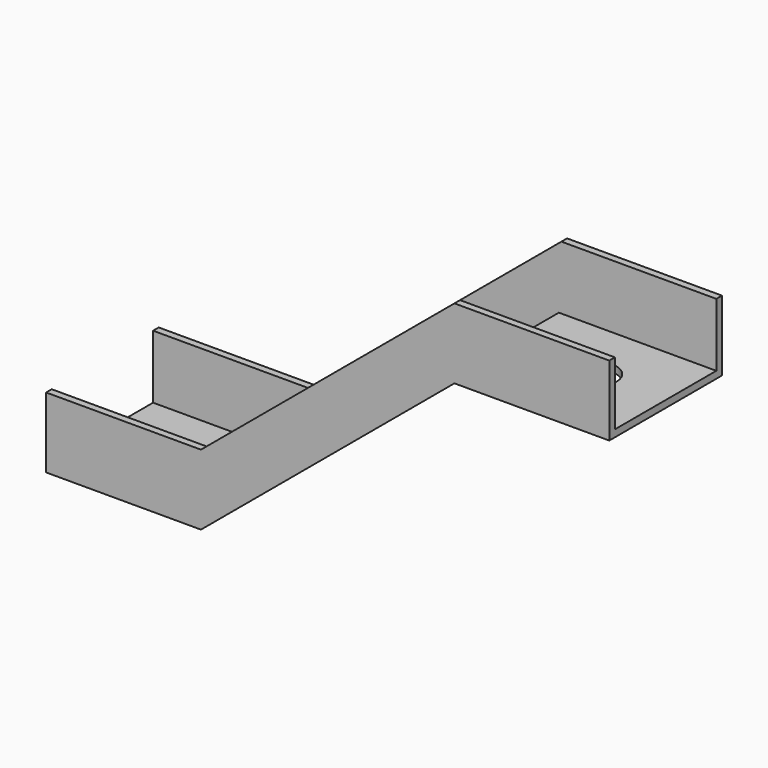
from build123d import *

# Parameters (mm, degrees)
F1_DEPTH = 20
F2_T     = -1
F3_R     = 3
F4_DEPTH = 1.001
F5_R     = 3
F6_DEPTH = 31.001


with BuildPart() as f1:
    # F0 (on Front) → F1 (new body)
    with BuildSketch(Plane.XZ):
        Polygon((70, 30), (70, 40), (48, 40), (12, 10), (-10, 10), (-10, 0), (12, 0), (48, 30), align=None)
    extrude(amount=-F1_DEPTH)

    # F2
    f2_openings = [f1.faces().sort_by_distance(p)[0] for p in [
        (59, 10, 40),
        (30, 10, 25),
        (1, 10, 10),
        (70, 10, 35),
        (-10, 10, 5),
    ]]
    offset(amount=F2_T, openings=f2_openings, kind=Kind.INTERSECTION)

    # F3 (on face) → F4 (cut, through all)
    with BuildSketch(Plane.XY.offset(1)):
        with Locations((0, 10)):
            Circle(F3_R)
    extrude(amount=-F4_DEPTH, mode=Mode.SUBTRACT)

    # F5 (on face) → F6 (cut, through all)
    with BuildSketch(Plane.XY.offset(31)):
        with Locations((60, 10)):
            Circle(F5_R)
    extrude(amount=-F6_DEPTH, mode=Mode.SUBTRACT)


solid = f1.part
